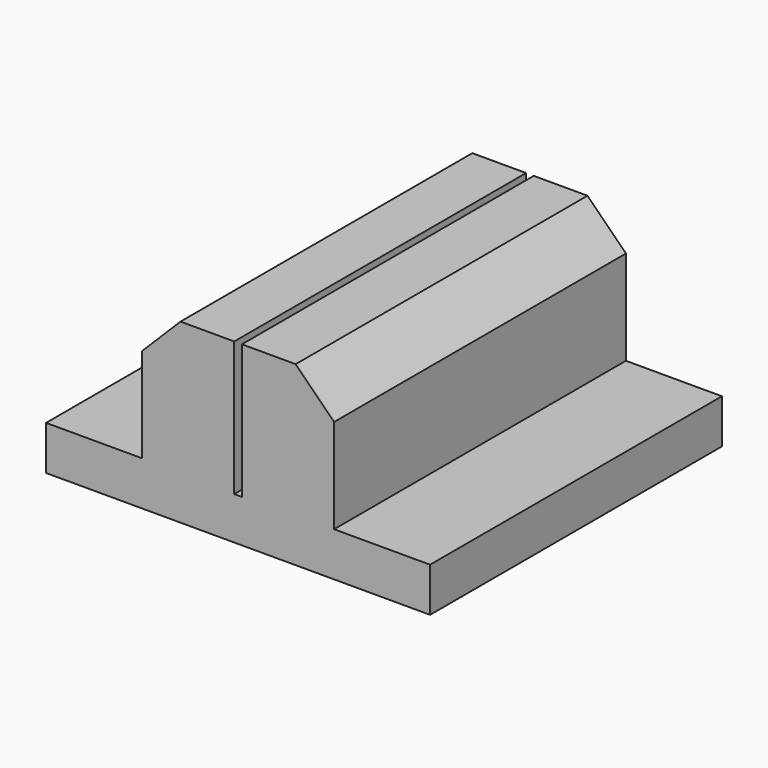
from build123d import *

# Parameters (mm, degrees)
F0_W     = 12.7
F0_H     = 8.786774
F1_DEPTH = 24.13
F2_W     = 0.508
F2_H     = 24.13
F3_DEPTH = 8.89
F4_SIZE  = 2.54


with BuildPart() as f1:
    # F0 (on Front) → F1 (new body)
    with BuildSketch(Plane.XZ):
        Polygon((-12.7, 2.475597), (-12.7, -0.445403), (12.7, -0.445403), (12.7, 2.475597), (6.35, 2.475597), (-6.35, 2.475597), align=None)
        with Locations((0, 6.868984)):
            Rectangle(F0_W, F0_H)
    extrude(amount=F1_DEPTH)

    # F2 (on face) → F3 (cut)
    with BuildSketch(Plane.XY.offset(11.262371)):
        with Locations((0, -12.065)):
            Rectangle(F2_W, F2_H)
    extrude(amount=-F3_DEPTH, mode=Mode.SUBTRACT)

    # F4
    f4_edges = [f1.edges().sort_by_distance(p)[0] for p in [
        (-6.35, -12.065, 11.262371),
        (6.35, -12.065, 11.262371),
    ]]
    chamfer(f4_edges, length=F4_SIZE)


solid = f1.part
